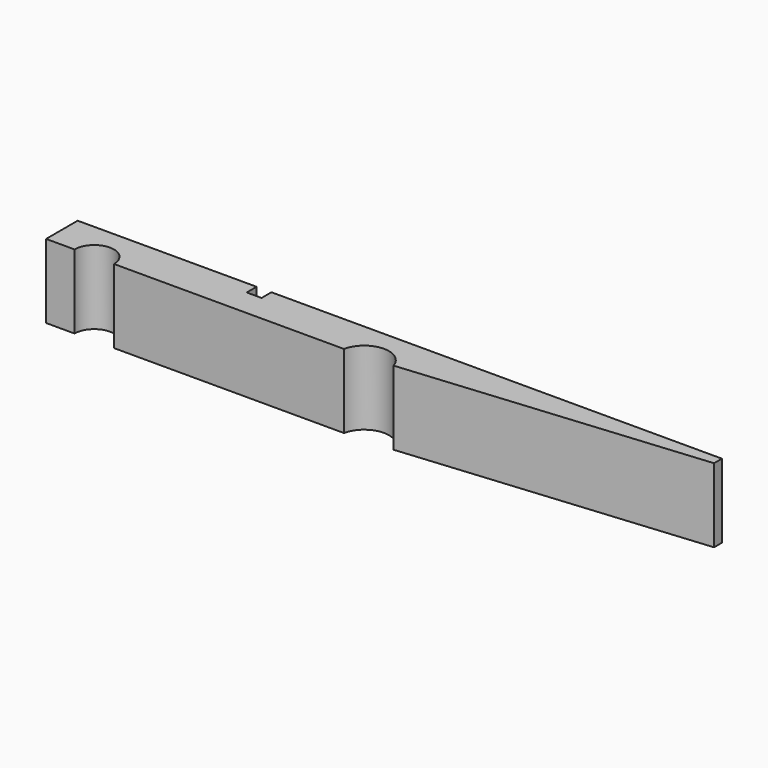
from build123d import *

# Parameters (mm, degrees)
F1_DEPTH = 9.525


with BuildPart() as f1:
    # F0 (on Top) → F1 (new body)
    with BuildSketch(Plane.XY):
        with BuildLine():
            Line((-10.026586, 12.900152), (-33.045336, 12.900152))
            Line((-33.045336, 12.900152), (-33.045336, 7.820152))
            Line((-33.045336, 7.820152), (-29.39147, 7.820152))
            ThreePointArc((-29.39147, 7.820152), (-26.85147, 10.360152), (-24.31147, 7.820152))
            Line((-24.31147, 7.820152), (5.271212, 7.820152))
            ThreePointArc((5.271212, 7.820152), (8.238203, 10.356891), (11.422657, 8.099163))
            Line((11.422657, 8.099163), (49.822164, 11.630152))
            Line((49.822164, 11.630152), (49.822164, 12.900152))
            Line((49.822164, 12.900152), (-8.121586, 12.900152))
            Line((-8.121586, 12.900152), (-8.121586, 11.312652))
            Line((-8.121586, 11.312652), (-10.026586, 11.312652))
            Line((-10.026586, 11.312652), (-10.026586, 12.900152))
        make_face()
    extrude(amount=F1_DEPTH)


solid = f1.part
